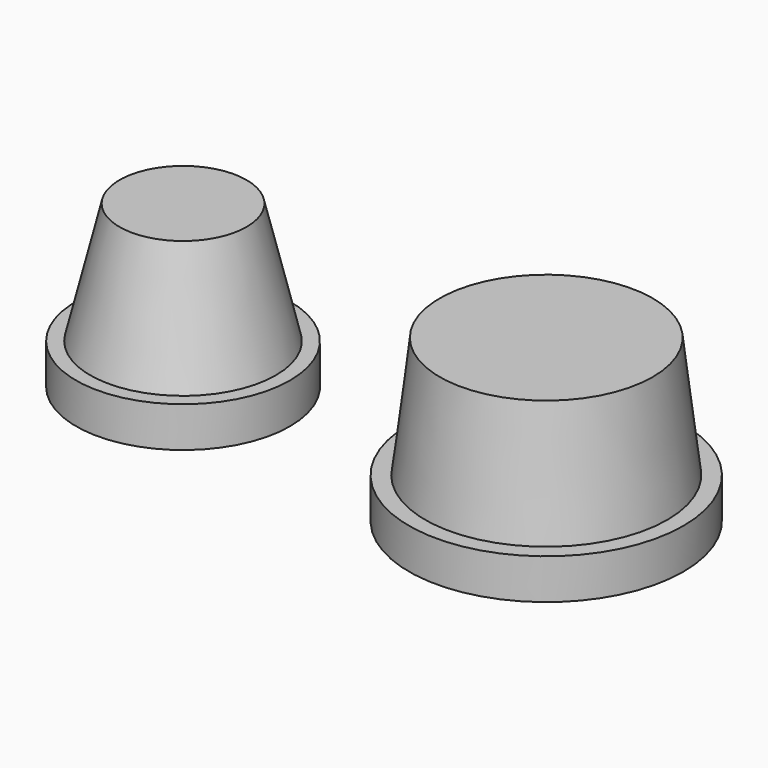
from build123d import *

# Parameters (mm, degrees)
SKETCH002_R  = 13.25
PAD_DEPTH    = 5
SKETCH_R     = 7.875
SKETCH001_R  = 11.5
SKETCH005_R  = 17
PAD001_DEPTH = 5
SKETCH003_R  = 13.2
SKETCH004_R  = 15


with BuildPart() as body:
    # Sketch002 → Pad (new body)
    with BuildSketch(Plane.XY):
        Circle(SKETCH002_R)
    extrude(amount=-PAD_DEPTH)

    # Sketch → AdditiveLoft section 0
    with BuildSketch(Plane.XY.offset(15)):
        Circle(SKETCH_R)
    # Sketch001 → AdditiveLoft section 1
    with BuildSketch(Plane.XY):
        Circle(SKETCH001_R)
    loft()


with BuildPart() as body001:
    # Sketch005 → Pad001 (new body)
    with BuildSketch(Plane.XY):
        Circle(SKETCH005_R)
    extrude(amount=-PAD001_DEPTH)

    # Sketch003 → AdditiveLoft001 section 0
    with BuildSketch(Plane.XY.offset(15)):
        Circle(SKETCH003_R)
    # Sketch004 → AdditiveLoft001 section 1
    with BuildSketch(Plane.XY):
        Circle(SKETCH004_R)
    loft()


with BuildPart() as body001_1:
    # Body001 placement: moved
    add(body001.part.moved(Location((45, 0, 0))))


solid = Compound([body.part, body001_1.part])
